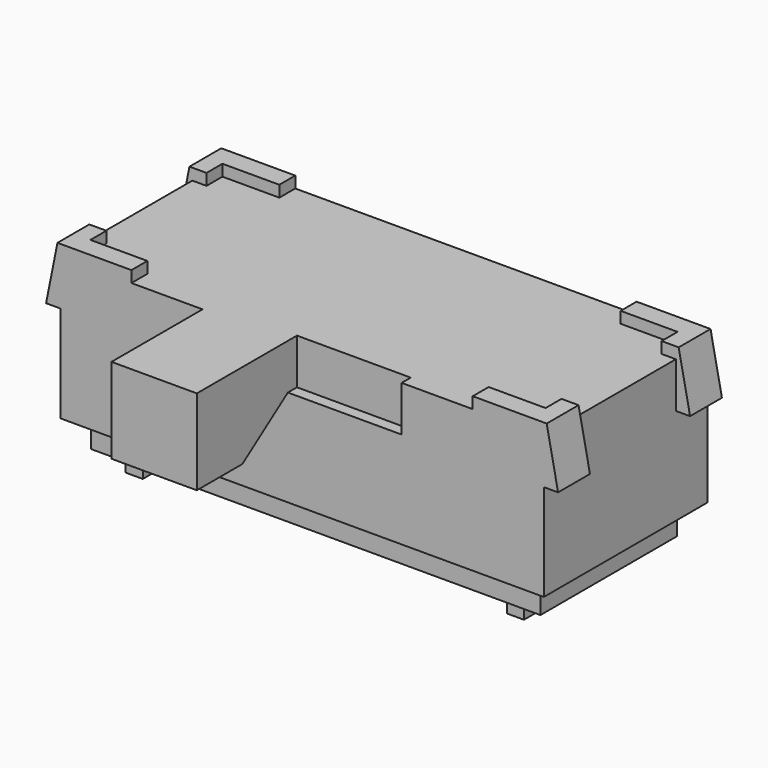
from build123d import *

# Parameters (mm, degrees)
PAD_DEPTH       = 3.6
SKETCH001_W     = 7.9
SKETCH001_H     = 3
PAD001_DEPTH    = 0.5
SKETCH002_W     = 0.3
SKETCH002_H     = 0.6
PAD002_DEPTH    = 0.3
SKETCH003_W     = 0.25
SKETCH003_H     = 2.2
POCKET_DEPTH    = 3.501
POCKET001_DEPTH = 0.2
SKETCH014_W     = 3.5
SKETCH014_H     = 0.8
POCKET002_DEPTH = 0.2
SKETCH015_W     = 1.5
SKETCH015_H     = 1.5
PAD008_DEPTH    = 2.2
POCKET003_DEPTH = 4.251


with BuildPart() as part:
    # Sketch (on DatumPlane) → Pad (new body)
    with BuildSketch(Plane.XZ.offset(-0.15)):
        Polygon((-1.75, 0.8), (-1.75, 2.5), (-2, 2.5), (-1.8, 3.5), (6.8, 3.5), (7, 2.5), (6.75, 2.5), (6.75, 0.8), align=None)
    extrude(amount=PAD_DEPTH)

    # Sketch001 (on Face8 of Pad) → Pad001 (join)
    with BuildSketch(Plane(origin=(0, 0.15, 0.8), x_dir=(1, 0, 0), z_dir=(0, 0, -1))):
        with Locations((2.5, 1.8)):
            Rectangle(SKETCH001_W, SKETCH001_H)
    extrude(amount=PAD001_DEPTH)

    # Sketch002 (on Face15 of Pad001) → Pad002 (join)
    with BuildSketch(Plane(origin=(0, 0.15, 0.3), x_dir=(1, 0, 0), z_dir=(0, 0, -1))):
        with Locations((-0.85, 2.8)):
            Rectangle(SKETCH002_W, SKETCH002_H)
        with Locations((-0.85, 0.8)):
            Rectangle(SKETCH002_W, SKETCH002_H)
        with Locations((5.85, 2.8)):
            Rectangle(SKETCH002_W, SKETCH002_H)
        with Locations((5.85, 0.8)):
            Rectangle(SKETCH002_W, SKETCH002_H)
    extrude(amount=PAD002_DEPTH)

    # Sketch003 (on Face12 of Pad002) → Pocket (cut, through all)
    with BuildSketch(Plane(origin=(0, 0.15, 3.5), x_dir=(-1, 0, 0), z_dir=(0, 0, 1))):
        with Locations((1.875, 1.8)):
            Rectangle(SKETCH003_W, SKETCH003_H)
        with Locations((-6.875, 1.8)):
            Rectangle(SKETCH003_W, SKETCH003_H)
    extrude(amount=-POCKET_DEPTH, mode=Mode.SUBTRACT)

    # Sketch004 (on Face7 of Pocket) → Pocket001 (cut)
    with BuildSketch(Plane(origin=(0, 0.15, 3.5), x_dir=(-1, 0, 0), z_dir=(0, 0, 1))):
        Polygon((-5.5, 3.6), (-5.5, 3.25), (-6.5, 3.25), (-6.5, 2.9), (-6.75, 2.9), (-6.75, 0.7), (-6.5, 0.7), (-6.5, 0.35), (-5.5, 0.35), (-5.5, 0), (0.5, 0), (0.5, 0.35), (1.5, 0.35), (1.5, 0.7), (1.75, 0.7), (1.75, 2.9), (1.5, 2.9), (1.5, 3.25), (0.5, 3.25), (0.5, 3.6), align=None)
    extrude(amount=-POCKET001_DEPTH, mode=Mode.SUBTRACT)

    # Sketch014 (on Face20 of Pocket001) → Pocket002 (cut)
    with BuildSketch(Plane.XZ.offset(3.45)):
        with Locations((2.5, 2.9)):
            Rectangle(SKETCH014_W, SKETCH014_H)
    extrude(amount=-POCKET002_DEPTH, mode=Mode.SUBTRACT)

    # Sketch015 (on Face40 of Pocket002) → Pad008 (join)
    with BuildSketch(Plane.XZ.offset(3.25)):
        with Locations((1.5, 2.55)):
            Rectangle(SKETCH015_W, SKETCH015_H)
    extrude(amount=PAD008_DEPTH)

    # Sketch016 (on Face50 of Pad008) → Pocket003 (cut, through all)
    with BuildSketch(Plane(origin=(2.25, 0.15, 0), x_dir=(0, 0, 1), z_dir=(1, 0, 0))):
        Polygon((1.8, 4.6), (1.8, 3.6), (2.5, 3.6), align=None)
    extrude(amount=-POCKET003_DEPTH, mode=Mode.SUBTRACT)


solid = part.part
